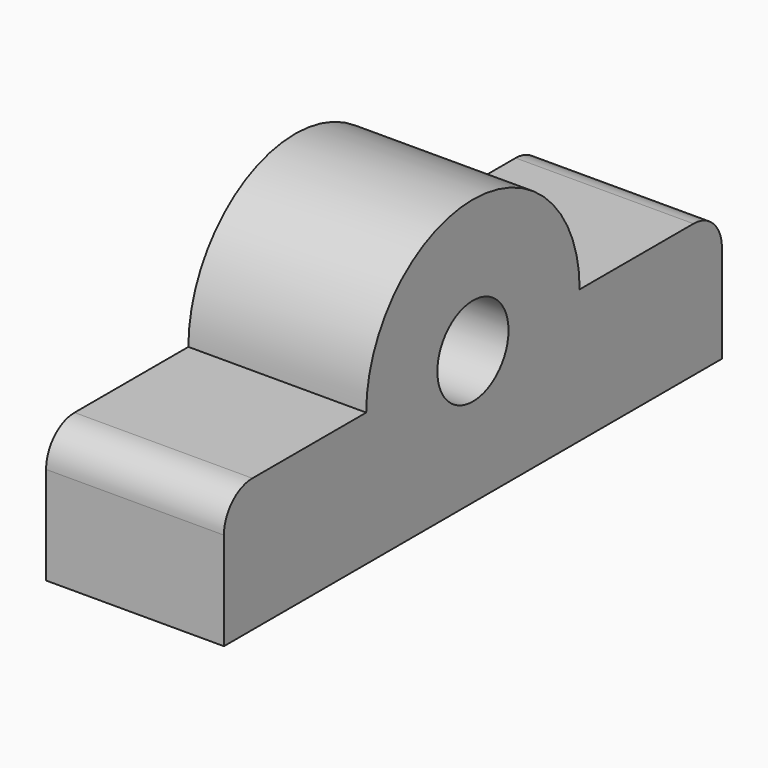
from build123d import *

# Parameters (mm, degrees)
F0_R     = 6.35
F1_DEPTH = 25.4
F2_R     = 5.08
F3_R     = 5.08


with BuildPart() as f1:
    # F0 (on Right) → F1 (new body)
    with BuildSketch(Plane.YZ):
        with BuildLine():
            Line((44.45, 0), (19.05, 0))
            ThreePointArc((19.05, 0), (0, 19.05), (-19.05, 0))
            Line((-19.05, 0), (-44.45, 0))
            Line((-44.45, 0), (-44.45, -19.05))
            Line((-44.45, -19.05), (44.45, -19.05))
            Line((44.45, -19.05), (44.45, 0))
        make_face()
        Circle(F0_R, mode=Mode.SUBTRACT)
    extrude(amount=F1_DEPTH)

    # F2
    f2_edges = [f1.edges().sort_by_distance(p)[0] for p in [
        (12.7, 44.45, 0),
    ]]
    fillet(f2_edges, radius=F2_R)

    # F3
    f3_edges = [f1.edges().sort_by_distance(p)[0] for p in [
        (12.7, -44.45, 0),
    ]]
    fillet(f3_edges, radius=F3_R)


solid = f1.part
